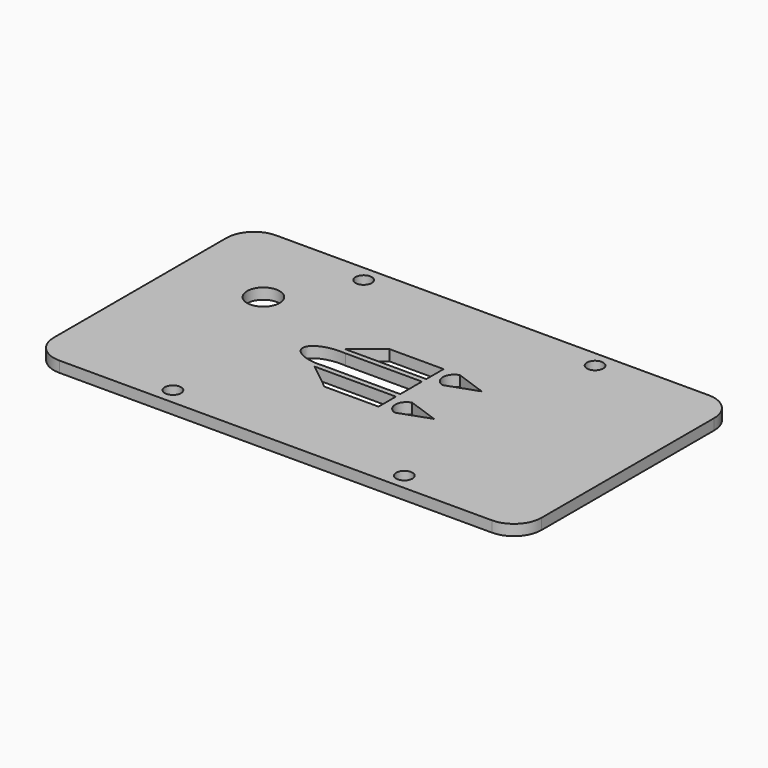
from build123d import *

# Parameters (mm, degrees)
F0_W      = 90
F0_H      = 50
F1_DEPTH  = 2
F3_R      = 5.08
F4_R      = 5.08
F5_R      = 5.08
F6_R      = 5.08
F8_W      = 10
F8_H      = 4
F9_DEPTH  = 25.4
F10_R     = 1.5
F11_DEPTH = 25.4
F12_R     = 3
F13_DEPTH = 25.4


with BuildPart() as f1:
    # F0 (on Top) → F1 (new body)
    with BuildSketch(Plane.XY):
        with Locations((45, 25)):
            Rectangle(F0_W, F0_H)
    extrude(amount=F1_DEPTH)

    # F3
    f3_edges = [f1.edges().sort_by_distance(p)[0] for p in [
        (90, 0, 1),
    ]]
    fillet(f3_edges, radius=F3_R)

    # F4
    f4_edges = [f1.edges().sort_by_distance(p)[0] for p in [
        (90, 50, 1),
    ]]
    fillet(f4_edges, radius=F4_R)

    # F5
    f5_edges = [f1.edges().sort_by_distance(p)[0] for p in [
        (0, 50, 1),
    ]]
    fillet(f5_edges, radius=F5_R)

    # F6
    f6_edges = [f1.edges().sort_by_distance(p)[0] for p in [
        (0, 0, 1),
    ]]
    fillet(f6_edges, radius=F6_R)

    # F8 (on offset) → F9 (cut)
    with BuildSketch(Plane.XY.offset(2)):
        with BuildLine():
            Line((35, 22.5), (35, 27.5))
            Line((35, 27.5), (35.8850657517, 27.5))
            add(Edge.make_bspline(
                [(35.8850657517, 27.5), (29.9931568267, 28.0368228686), (29.9931568267, 25)],
                knots=[4.5346839474, 4.5346839474, 4.5346839474, 6.2831853072, 6.2831853072, 6.2831853072], degree=2, weights=[1, 0.6415718139, 1]))
            add(Edge.make_bspline(
                [(29.9931568267, 25), (29.9931568267, 21.9631771314), (35.8850657517, 22.5)],
                knots=[0, 0, 0, 1.7485013598, 1.7485013598, 1.7485013598], degree=2, weights=[1, 0.6415718139, 1]))
            Line((35.8850657517, 22.5), (35, 22.5))
        make_face()
        with BuildLine():
            Line((35.8850657517, 27.5), (35, 27.5))
            Line((35, 27.5), (35, 22.5))
            Line((35, 22.5), (35.8850657517, 22.5))
            add(Edge.make_bspline(
                [(35.8850657517, 22.5), (40.0068431733, 22.8755428686), (40.0068431733, 25), (40.0068431733, 27.1244571314), (35.8850657517, 27.5)],
                knots=[1.7485013598, 1.7485013598, 1.7485013598, 3.1415926536, 3.1415926536, 4.5346839474, 4.5346839474, 4.5346839474], degree=2, weights=[1, 0.767062975, 1, 0.767062975, 1]))
        make_face()
        with BuildLine():
            Line((50, 27.5), (35.8850657517, 27.5))
            add(Edge.make_bspline(
                [(35.8850657517, 22.5), (40.0068431733, 22.8755428686), (40.0068431733, 25), (40.0068431733, 27.1244571314), (35.8850657517, 27.5)],
                knots=[1.7485013598, 1.7485013598, 1.7485013598, 3.1415926536, 3.1415926536, 4.5346839474, 4.5346839474, 4.5346839474], degree=2, weights=[1, 0.767062975, 1, 0.767062975, 1]))
            Line((35.8850657517, 22.5), (50, 22.5))
            Line((50, 22.5), (50, 27.5))
        make_face()
        with Locations((45, 30.5)):
            Rectangle(F8_W, F8_H)
        Polygon((40, 28.5), (40, 32.5), (35, 28.5), align=None)
        Polygon((35, 21.5), (40, 17.5), (40, 21.5), align=None)
        with Locations((45, 19.5)):
            Rectangle(F8_W, F8_H)
        with BuildLine():
            Line((58.6482731998, 30.5), (53, 32.5))
            ThreePointArc((53, 32.5), (51.4781820371, 30.5), (53, 28.5))
            Line((53, 28.5), (58.6482731998, 30.5))
        make_face()
        with BuildLine():
            ThreePointArc((53, 21.5), (51.4781820371, 19.5), (53, 17.5))
            Line((53, 17.5), (58.6482731998, 19.5))
            Line((58.6482731998, 19.5), (53, 21.5))
        make_face()
    extrude(amount=-F9_DEPTH, mode=Mode.SUBTRACT)

    # F10 (on offset) → F11 (cut)
    with BuildSketch(Plane.XY.offset(2)):
        with Locations((23.6474, 3)):
            Circle(F10_R)
        with Locations((66.3526, 3)):
            Circle(F10_R)
        with Locations((23.6474, 47)):
            Circle(F10_R)
        with Locations((66.3526, 47)):
            Circle(F10_R)
    extrude(amount=-F11_DEPTH, mode=Mode.SUBTRACT)

    # F12 (on offset) → F13 (cut)
    with BuildSketch(Plane.XY.offset(2)):
        with Locations((15.6768597662, 33.8291116059)):
            Circle(F12_R)
    extrude(amount=-F13_DEPTH, mode=Mode.SUBTRACT)


solid = f1.part
